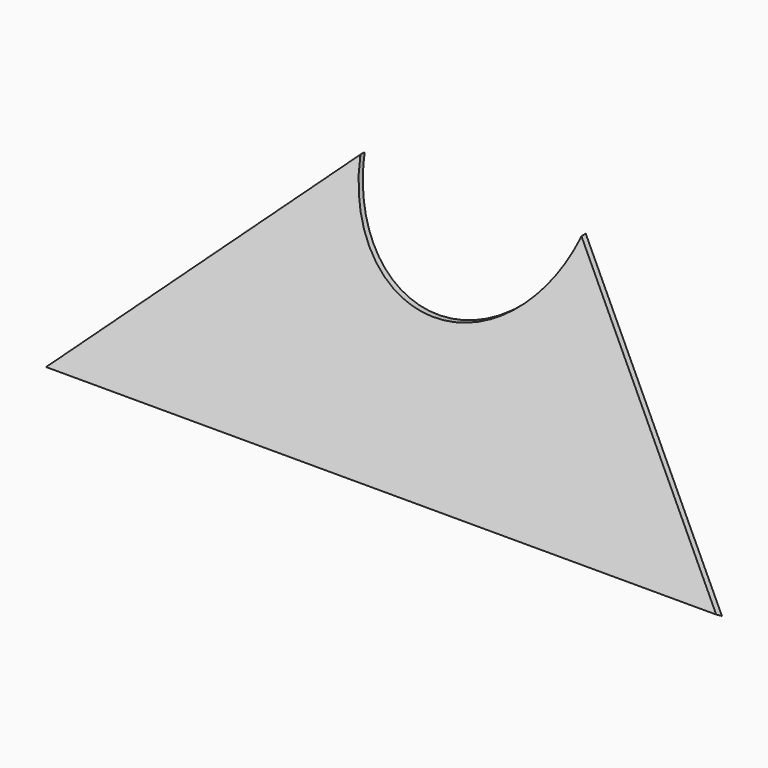
from build123d import *

# Parameters (mm, degrees)
F1_DEPTH = 282.5
F2_R     = 71
F3_DEPTH = 101.881547
F5_DEPTH = 101.881547


with BuildPart() as f1:
    # F0 (on Right) → F1 (new body, symmetric)
    with BuildSketch(Plane.YZ):
        Polygon((-23.392175, 230), (-101.880547, 80), (-99.222448, 78.609134), (-20.006297, 230), align=None)
    extrude(amount=F1_DEPTH, both=True)

    # F2 (on Front) → F3 (cut, through all)
    with BuildSketch(Plane.XZ):
        with Locations((0, 230)):
            Circle(F2_R)
    extrude(amount=F3_DEPTH, mode=Mode.SUBTRACT)

    # F4 (on Front) → F5 (cut, through all)
    with BuildSketch(Plane.XZ):
        Polygon((408.706428, 306.349989), (69.978568, 306.349989), (69.289558, 306.349989), (69.289558, 271.222025), (69.289558, 214.509451), (275.742, 17.306537), (275.742, 0), (282.5, 0), (408.706428, 0), align=None)
        Polygon((-69.289558, 271.222025), (-69.289558, 306.349989), (-69.978568, 306.349989), (-408.706428, 306.349989), (-408.706428, 0), (-282.5, 0), (-275.742, 0), (-275.742, 17.306537), (-69.289558, 214.509451), align=None)
    extrude(amount=F5_DEPTH, mode=Mode.SUBTRACT)


solid = f1.part
